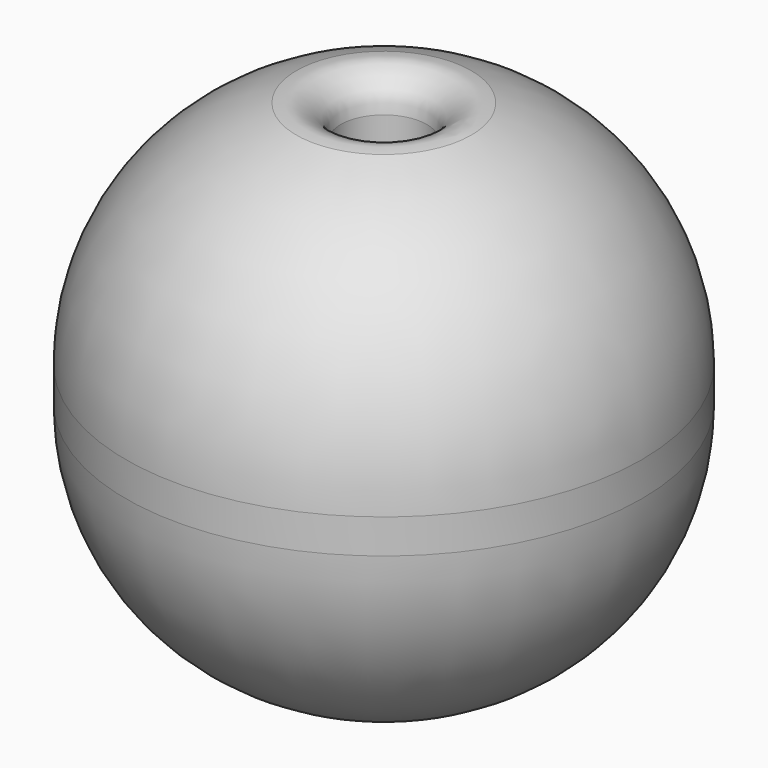
from build123d import *

# Parameters (mm, degrees)
F0_R     = 7.5
F1_DEPTH = 15
F2_R     = 7
F3_R     = 7
F4_R     = 1.25
F4_R_2   = 0.5
F5_DEPTH = 25
F6_R     = 1
F7_R     = 1


with BuildPart() as f1:
    # F0 (on Top) → F1 (new body)
    with BuildSketch(Plane.XY):
        Circle(F0_R)
    extrude(amount=F1_DEPTH)

    # F2
    f2_edges = [f1.edges().sort_by_distance(p)[0] for p in [
        (-7.5, 0, 15),
    ]]
    fillet(f2_edges, radius=F2_R)

    # F3
    f3_edges = [f1.edges().sort_by_distance(p)[0] for p in [
        (-7.5, 0, 0),
    ]]
    fillet(f3_edges, radius=F3_R)

    # F4 (on face) → F5 (cut)
    with BuildSketch(Plane.XY.offset(15)):
        Circle(F4_R)
        Circle(F4_R_2, mode=Mode.SUBTRACT)
        Circle(F4_R_2)
    extrude(amount=-F5_DEPTH, mode=Mode.SUBTRACT)

    # F6
    f6_edges = [f1.edges().sort_by_distance(p)[0] for p in [
        (-1.25, 0, 14.959705),
    ]]
    fillet(f6_edges, radius=F6_R)

    # F7
    f7_edges = [f1.edges().sort_by_distance(p)[0] for p in [
        (-1.25, 0, 0.040295),
    ]]
    fillet(f7_edges, radius=F7_R)


solid = f1.part
